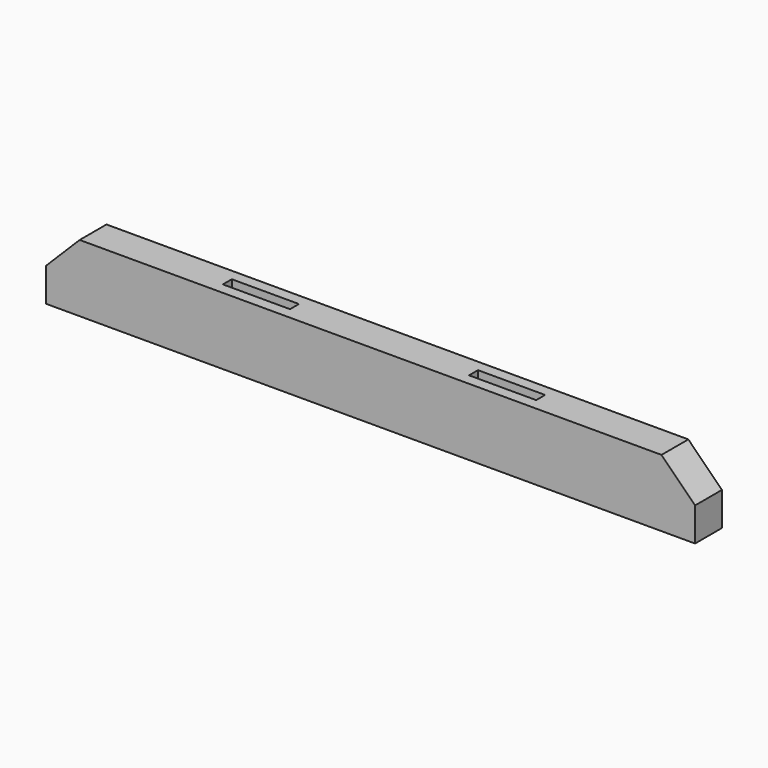
from build123d import *

# Parameters (mm, degrees)
F0_W     = 736.6
F0_H     = 76.2
F1_DEPTH = 38.1
F2_SIZE  = 38.1
F3_W     = 76.2
F3_H     = 12.7
F4_DEPTH = 50.8


with BuildPart() as f1:
    # F0 (on Front) → F1 (new body)
    with BuildSketch(Plane.XZ):
        with Locations((0, 38.1)):
            Rectangle(F0_W, F0_H)
    extrude(amount=F1_DEPTH)

    # F2
    f2_edges = [f1.edges().sort_by_distance(p)[0] for p in [
        (-368.3, -19.05, 76.2),
        (368.3, -19.05, 76.2),
    ]]
    chamfer(f2_edges, length=F2_SIZE)

    # F3 (on face) → F4 (cut)
    with BuildSketch(Plane.XY.offset(76.2)):
        with Locations((-139.7, -19.05)):
            Rectangle(F3_W, F3_H)
        with Locations((139.7, -19.05)):
            Rectangle(F3_W, F3_H)
    extrude(amount=-F4_DEPTH, mode=Mode.SUBTRACT)


solid = f1.part
